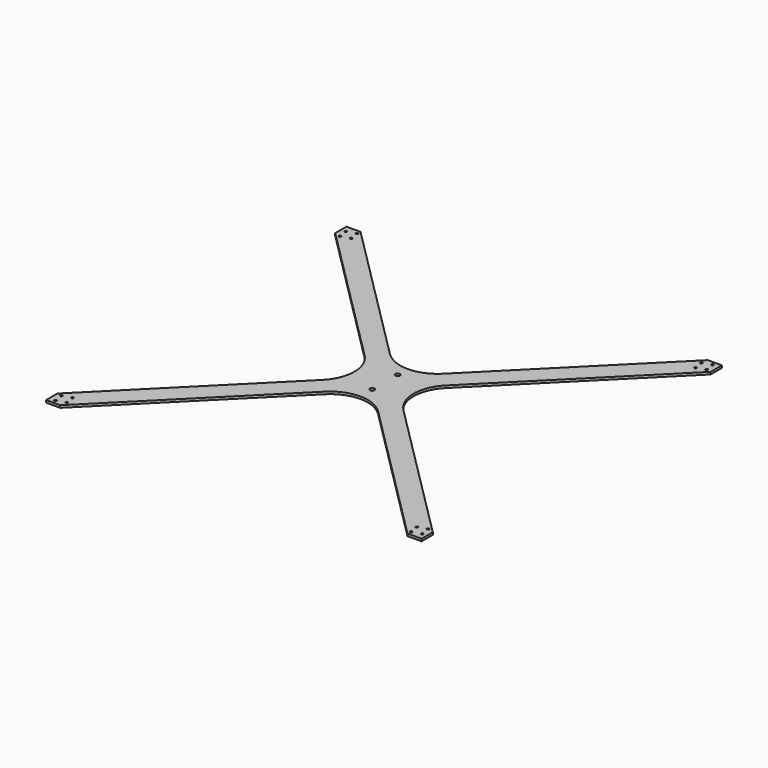
from build123d import *

# Parameters (mm, degrees)
F0_W     = 508
F0_H     = 508
F1_DEPTH = 3.175
F3_DEPTH = 3.176
F4_R     = 50.8
F6_DEPTH = 3.176


with BuildPart() as f1:
    # F0 (on Top) → F1 (new body)
    with BuildSketch(Plane.XY):
        Rectangle(F0_W, F0_H)
    extrude(amount=F1_DEPTH)

    # F2 (on face) → F3 (cut, through all)
    with BuildSketch(Plane.XY.offset(3.175)):
        Polygon((-19.05, 0), (-254, 234.95), (-254, -234.95), align=None)
        Polygon((-234.95, 254), (0, 19.05), (234.95, 254), align=None)
        Polygon((254, -234.95), (254, 234.95), (19.05, 0), align=None)
        Polygon((-234.95, -254), (234.95, -254), (0, -19.05), align=None)
    extrude(amount=-F3_DEPTH, mode=Mode.SUBTRACT)

    # F4
    f4_edges = [f1.edges().sort_by_distance(p)[0] for p in [
        (-19.05, 0, 1.5875),
        (0, -19.05, 1.5875),
        (19.05, 0, 1.5875),
        (0, 19.05, 1.5875),
    ]]
    fillet(f4_edges, radius=F4_R)

    # F5 (on face) → F6 (cut, through all)
    with BuildSketch(Plane(origin=(0, 0, 0), x_dir=(1, 0, 0), z_dir=(0, 0, -1))):
        with BuildLine():
            ThreePointArc((-235.2896751078, -247.0952381308), (-235.8602181666, -247.0987727715), (-236.3926626451, -247.3037965579))
            Line((-236.3926626451, -247.3037965579), (-235.5652720105, -248.6586327059))
            Line((-235.5652720105, -248.6586327059), (-235.2896751078, -247.0952381308))
        make_face()
        with BuildLine():
            Line((-235.5652720105, -248.6586327059), (-236.3926626451, -247.3037965579))
            ThreePointArc((-236.3926626451, -247.3037965579), (-236.8182319942, -247.6838262999), (-237.0819548651, -248.189773059))
            Line((-237.0819548651, -248.189773059), (-235.5652720105, -248.6586327059))
        make_face()
        with BuildLine():
            ThreePointArc((-233.9777720105, -248.6586327059), (-234.3491991646, -247.6381803143), (-235.2896751078, -247.0952381308))
            Line((-235.2896751078, -247.0952381308), (-235.5652720105, -248.6586327059))
            Line((-235.5652720105, -248.6586327059), (-237.0819548651, -248.189773059))
            ThreePointArc((-237.0819548651, -248.189773059), (-235.8023608316, -250.2283285811), (-233.9777720105, -248.6586327059))
        make_face()
        with BuildLine():
            Line((-247.6987348476, -244.9077555312), (-247.423137945, -243.3443609562))
            ThreePointArc((-247.423137945, -243.3443609562), (-249.0535709955, -245.7351461659), (-246.182051993, -245.376615178))
            Line((-246.182051993, -245.376615178), (-247.6987348476, -244.9077555312))
        make_face()
        with BuildLine():
            ThreePointArc((-244.6665689917, -233.7554350788), (-244.2409996426, -233.3754053369), (-243.9772767717, -232.8694585778))
            Line((-243.9772767717, -232.8694585778), (-245.4939596263, -232.4005989309))
            Line((-245.4939596263, -232.4005989309), (-244.6665689917, -233.7554350788))
        make_face()
        with BuildLine():
            ThreePointArc((-245.769556529, -233.963993506), (-245.1990134701, -233.9604588653), (-244.6665689917, -233.7554350788))
            Line((-244.6665689917, -233.7554350788), (-245.4939596263, -232.4005989309))
            Line((-245.4939596263, -232.4005989309), (-245.769556529, -233.963993506))
        make_face()
        with BuildLine():
            Line((-245.4939596263, -232.4005989309), (-243.9772767717, -232.8694585778))
            ThreePointArc((-243.9772767717, -232.8694585778), (-243.9242637511, -232.6376877521), (-243.9064596263, -232.4005989309))
            ThreePointArc((-243.9064596263, -232.4005989309), (-246.5144120179, -231.1845260851), (-245.769556529, -233.963993506))
            Line((-245.769556529, -233.963993506), (-245.4939596263, -232.4005989309))
        make_face()
        with BuildLine():
            ThreePointArc((-231.7729967892, -236.1514761056), (-233.123407968, -234.5817802303), (-234.8771796438, -235.6826164588))
            Line((-234.8771796438, -235.6826164588), (-233.3604967892, -236.1514761056))
            Line((-233.3604967892, -236.1514761056), (-233.6360936918, -237.7148706806))
            ThreePointArc((-233.6360936918, -237.7148706806), (-232.3400443976, -237.3675489515), (-231.7729967892, -236.1514761056))
        make_face()
        with BuildLine():
            Line((-233.3604967892, -236.1514761056), (-234.8771796438, -235.6826164588))
            ThreePointArc((-234.8771796438, -235.6826164588), (-234.7153329371, -236.9788667402), (-233.6360936918, -237.7148706806))
            Line((-233.6360936918, -237.7148706806), (-233.3604967892, -236.1514761056))
        make_face()
        with BuildLine():
            ThreePointArc((-246.1112348476, -244.9077555312), (-246.4826620017, -243.8873031396), (-247.423137945, -243.3443609562))
            Line((-247.423137945, -243.3443609562), (-247.6987348476, -244.9077555312))
            Line((-247.6987348476, -244.9077555312), (-246.182051993, -245.376615178))
            ThreePointArc((-246.182051993, -245.376615178), (-246.1290389723, -245.1448443524), (-246.1112348476, -244.9077555312))
        make_face()
        with BuildLine():
            Line((-233.3604967892, 244.9077555312), (-233.6360936918, 243.3443609562))
            ThreePointArc((-233.6360936918, 243.3443609562), (-232.3400443976, 243.6916826853), (-231.7729967892, 244.9077555312))
            ThreePointArc((-231.7729967892, 244.9077555312), (-233.123407968, 246.4774514065), (-234.8771796438, 245.376615178))
            Line((-234.8771796438, 245.376615178), (-233.3604967892, 244.9077555312))
        make_face()
        with BuildLine():
            ThreePointArc((-234.8771796438, 245.376615178), (-234.7153329371, 244.0803648965), (-233.6360936918, 243.3443609562))
            Line((-233.6360936918, 243.3443609562), (-233.3604967892, 244.9077555312))
            Line((-233.3604967892, 244.9077555312), (-234.8771796438, 245.376615178))
        make_face()
        with BuildLine():
            Line((-245.4939596263, 248.6586327059), (-244.6665689917, 247.3037965579))
            ThreePointArc((-244.6665689917, 247.3037965579), (-244.2409996426, 247.6838262999), (-243.9772767717, 248.189773059))
            Line((-243.9772767717, 248.189773059), (-245.4939596263, 248.6586327059))
        make_face()
        with BuildLine():
            ThreePointArc((-245.769556529, 247.0952381308), (-245.1990134701, 247.0987727715), (-244.6665689917, 247.3037965579))
            Line((-244.6665689917, 247.3037965579), (-245.4939596263, 248.6586327059))
            Line((-245.4939596263, 248.6586327059), (-245.769556529, 247.0952381308))
        make_face()
        with BuildLine():
            ThreePointArc((-243.9064596263, 248.6586327059), (-246.5144120179, 249.8747055517), (-245.769556529, 247.0952381308))
            Line((-245.769556529, 247.0952381308), (-245.4939596263, 248.6586327059))
            Line((-245.4939596263, 248.6586327059), (-243.9772767717, 248.189773059))
            ThreePointArc((-243.9772767717, 248.189773059), (-243.9242637511, 248.4215438847), (-243.9064596263, 248.6586327059))
        make_face()
        with BuildLine():
            ThreePointArc((-246.1112348476, 236.1514761056), (-246.4826620017, 237.1719284972), (-247.423137945, 237.7148706806))
            Line((-247.423137945, 237.7148706806), (-247.6987348476, 236.1514761056))
            Line((-247.6987348476, 236.1514761056), (-246.182051993, 235.6826164588))
            ThreePointArc((-246.182051993, 235.6826164588), (-246.1290389723, 235.9143872844), (-246.1112348476, 236.1514761056))
        make_face()
        with BuildLine():
            Line((-247.6987348476, 236.1514761056), (-247.423137945, 237.7148706806))
            ThreePointArc((-247.423137945, 237.7148706806), (-249.0535709955, 235.3240854709), (-246.182051993, 235.6826164588))
            Line((-246.182051993, 235.6826164588), (-247.6987348476, 236.1514761056))
        make_face()
        with BuildLine():
            ThreePointArc((-233.9777720105, 232.4005989309), (-234.3491991646, 233.4210513225), (-235.2896751078, 233.963993506))
            Line((-235.2896751078, 233.963993506), (-235.5652720105, 232.4005989309))
            Line((-235.5652720105, 232.4005989309), (-237.0819548651, 232.8694585778))
            ThreePointArc((-237.0819548651, 232.8694585778), (-235.8023608316, 230.8309030557), (-233.9777720105, 232.4005989309))
        make_face()
        with BuildLine():
            Line((-235.5652720105, 232.4005989309), (-235.2896751078, 233.963993506))
            ThreePointArc((-235.2896751078, 233.963993506), (-235.8602181666, 233.9604588653), (-236.3926626451, 233.7554350788))
            Line((-236.3926626451, 233.7554350788), (-235.5652720105, 232.4005989309))
        make_face()
        with BuildLine():
            Line((-235.5652720105, 232.4005989309), (-236.3926626451, 233.7554350788))
            ThreePointArc((-236.3926626451, 233.7554350788), (-236.8182319942, 233.3754053369), (-237.0819548651, 232.8694585778))
            Line((-237.0819548651, 232.8694585778), (-235.5652720105, 232.4005989309))
        make_face()
        with BuildLine():
            Line((247.6987348476, 244.9077555312), (247.423137945, 243.3443609562))
            ThreePointArc((247.423137945, 243.3443609562), (248.7191872392, 243.6916826853), (249.2862348476, 244.9077555312))
            ThreePointArc((249.2862348476, 244.9077555312), (247.9358236688, 246.4774514065), (246.182051993, 245.376615178))
            Line((246.182051993, 245.376615178), (247.6987348476, 244.9077555312))
        make_face()
        with BuildLine():
            ThreePointArc((246.182051993, 245.376615178), (246.3438986997, 244.0803648965), (247.423137945, 243.3443609562))
            Line((247.423137945, 243.3443609562), (247.6987348476, 244.9077555312))
            Line((247.6987348476, 244.9077555312), (246.182051993, 245.376615178))
        make_face()
        with BuildLine():
            ThreePointArc((245.769556529, 233.963993506), (245.1990134701, 233.9604588653), (244.6665689917, 233.7554350788))
            Line((244.6665689917, 233.7554350788), (245.4939596263, 232.4005989309))
            Line((245.4939596263, 232.4005989309), (245.769556529, 233.963993506))
        make_face()
        with BuildLine():
            Line((245.4939596263, 232.4005989309), (243.9772767717, 232.8694585778))
            ThreePointArc((243.9772767717, 232.8694585778), (245.2568708052, 230.8309030557), (247.0814596263, 232.4005989309))
            ThreePointArc((247.0814596263, 232.4005989309), (246.7100324722, 233.4210513225), (245.769556529, 233.963993506))
            Line((245.769556529, 233.963993506), (245.4939596263, 232.4005989309))
        make_face()
        with BuildLine():
            ThreePointArc((244.6665689917, 233.7554350788), (244.2409996426, 233.3754053369), (243.9772767717, 232.8694585778))
            Line((243.9772767717, 232.8694585778), (245.4939596263, 232.4005989309))
            Line((245.4939596263, 232.4005989309), (244.6665689917, 233.7554350788))
        make_face()
        with BuildLine():
            ThreePointArc((233.6360936918, 237.7148706806), (232.0056606413, 235.3240854709), (234.8771796438, 235.6826164588))
            Line((234.8771796438, 235.6826164588), (233.3604967892, 236.1514761056))
            Line((233.3604967892, 236.1514761056), (233.6360936918, 237.7148706806))
        make_face()
        with BuildLine():
            Line((233.3604967892, 236.1514761056), (234.8771796438, 235.6826164588))
            ThreePointArc((234.8771796438, 235.6826164588), (234.9301926645, 235.9143872844), (234.9479967892, 236.1514761056))
            ThreePointArc((234.9479967892, 236.1514761056), (234.5765696351, 237.1719284972), (233.6360936918, 237.7148706806))
            Line((233.6360936918, 237.7148706806), (233.3604967892, 236.1514761056))
        make_face()
        with BuildLine():
            ThreePointArc((235.2896751078, 247.0952381308), (235.8602181666, 247.0987727715), (236.3926626451, 247.3037965579))
            Line((236.3926626451, 247.3037965579), (235.5652720105, 248.6586327059))
            Line((235.5652720105, 248.6586327059), (235.2896751078, 247.0952381308))
        make_face()
        with BuildLine():
            Line((235.5652720105, 248.6586327059), (236.3926626451, 247.3037965579))
            ThreePointArc((236.3926626451, 247.3037965579), (236.8182319942, 247.6838262999), (237.0819548651, 248.189773059))
            Line((237.0819548651, 248.189773059), (235.5652720105, 248.6586327059))
        make_face()
        with BuildLine():
            ThreePointArc((237.1527720105, 248.6586327059), (234.5448196189, 249.8747055517), (235.2896751078, 247.0952381308))
            Line((235.2896751078, 247.0952381308), (235.5652720105, 248.6586327059))
            Line((235.5652720105, 248.6586327059), (237.0819548651, 248.189773059))
            ThreePointArc((237.0819548651, 248.189773059), (237.1349678857, 248.4215438847), (237.1527720105, 248.6586327059))
        make_face()
        with BuildLine():
            ThreePointArc((247.0814596263, -248.6586327059), (246.7100324722, -247.6381803143), (245.769556529, -247.0952381308))
            Line((245.769556529, -247.0952381308), (245.4939596263, -248.6586327059))
            Line((245.4939596263, -248.6586327059), (243.9772767717, -248.189773059))
            ThreePointArc((243.9772767717, -248.189773059), (245.2568708052, -250.2283285811), (247.0814596263, -248.6586327059))
        make_face()
        with BuildLine():
            Line((245.4939596263, -248.6586327059), (244.6665689917, -247.3037965579))
            ThreePointArc((244.6665689917, -247.3037965579), (244.2409996426, -247.6838262999), (243.9772767717, -248.189773059))
            Line((243.9772767717, -248.189773059), (245.4939596263, -248.6586327059))
        make_face()
        with BuildLine():
            ThreePointArc((245.769556529, -247.0952381308), (245.1990134701, -247.0987727715), (244.6665689917, -247.3037965579))
            Line((244.6665689917, -247.3037965579), (245.4939596263, -248.6586327059))
            Line((245.4939596263, -248.6586327059), (245.769556529, -247.0952381308))
        make_face()
        with BuildLine():
            ThreePointArc((234.9479967892, -244.9077555312), (234.5765696351, -243.8873031396), (233.6360936918, -243.3443609562))
            Line((233.6360936918, -243.3443609562), (233.3604967892, -244.9077555312))
            Line((233.3604967892, -244.9077555312), (234.8771796438, -245.376615178))
            ThreePointArc((234.8771796438, -245.376615178), (234.9301926645, -245.1448443524), (234.9479967892, -244.9077555312))
        make_face()
        with BuildLine():
            Line((233.3604967892, -244.9077555312), (233.6360936918, -243.3443609562))
            ThreePointArc((233.6360936918, -243.3443609562), (232.0056606413, -245.7351461659), (234.8771796438, -245.376615178))
            Line((234.8771796438, -245.376615178), (233.3604967892, -244.9077555312))
        make_face()
        with BuildLine():
            Line((235.5652720105, -232.4005989309), (235.2896751078, -233.963993506))
            ThreePointArc((235.2896751078, -233.963993506), (235.8602181666, -233.9604588653), (236.3926626451, -233.7554350788))
            Line((236.3926626451, -233.7554350788), (235.5652720105, -232.4005989309))
        make_face()
        with BuildLine():
            Line((235.5652720105, -232.4005989309), (236.3926626451, -233.7554350788))
            ThreePointArc((236.3926626451, -233.7554350788), (236.8182319942, -233.3754053369), (237.0819548651, -232.8694585778))
            Line((237.0819548651, -232.8694585778), (235.5652720105, -232.4005989309))
        make_face()
        with BuildLine():
            ThreePointArc((237.1527720105, -232.4005989309), (234.5448196189, -231.1845260851), (235.2896751078, -233.963993506))
            Line((235.2896751078, -233.963993506), (235.5652720105, -232.4005989309))
            Line((235.5652720105, -232.4005989309), (237.0819548651, -232.8694585778))
            ThreePointArc((237.0819548651, -232.8694585778), (237.1349678857, -232.6376877521), (237.1527720105, -232.4005989309))
        make_face()
        with BuildLine():
            ThreePointArc((246.182051993, -235.6826164588), (246.3438986997, -236.9788667402), (247.423137945, -237.7148706806))
            Line((247.423137945, -237.7148706806), (247.6987348476, -236.1514761056))
            Line((247.6987348476, -236.1514761056), (246.182051993, -235.6826164588))
        make_face()
        with BuildLine():
            Line((247.6987348476, -236.1514761056), (247.423137945, -237.7148706806))
            ThreePointArc((247.423137945, -237.7148706806), (248.7191872392, -237.3675489515), (249.2862348476, -236.1514761056))
            ThreePointArc((249.2862348476, -236.1514761056), (247.9358236688, -234.5817802303), (246.182051993, -235.6826164588))
            Line((246.182051993, -235.6826164588), (247.6987348476, -236.1514761056))
        make_face()
        with BuildLine():
            Line((0, 22.9821543127), (0, 16.6321543127))
            ThreePointArc((0, 16.6321543127), (2.2450640303, 17.5620902825), (3.175, 19.8071543127))
            ThreePointArc((3.175, 19.8071543127), (2.2450640303, 22.052218343), (0, 22.9821543127))
        make_face()
        with BuildLine():
            Line((0, -26.339305836), (0, -19.989305836))
            ThreePointArc((0, -19.989305836), (-3.175, -23.164305836), (0, -26.339305836))
        make_face()
        with BuildLine():
            ThreePointArc((3.175, -23.164305836), (2.2450640303, -20.9192418057), (0, -19.989305836))
            Line((0, -19.989305836), (0, -26.339305836))
            ThreePointArc((0, -26.339305836), (2.2450640303, -25.4093698662), (3.175, -23.164305836))
        make_face()
        with BuildLine():
            ThreePointArc((0, 22.9821543127), (-3.175, 19.8071543127), (0, 16.6321543127))
            Line((0, 16.6321543127), (0, 22.9821543127))
        make_face()
    extrude(amount=-F6_DEPTH, mode=Mode.SUBTRACT)


solid = f1.part
